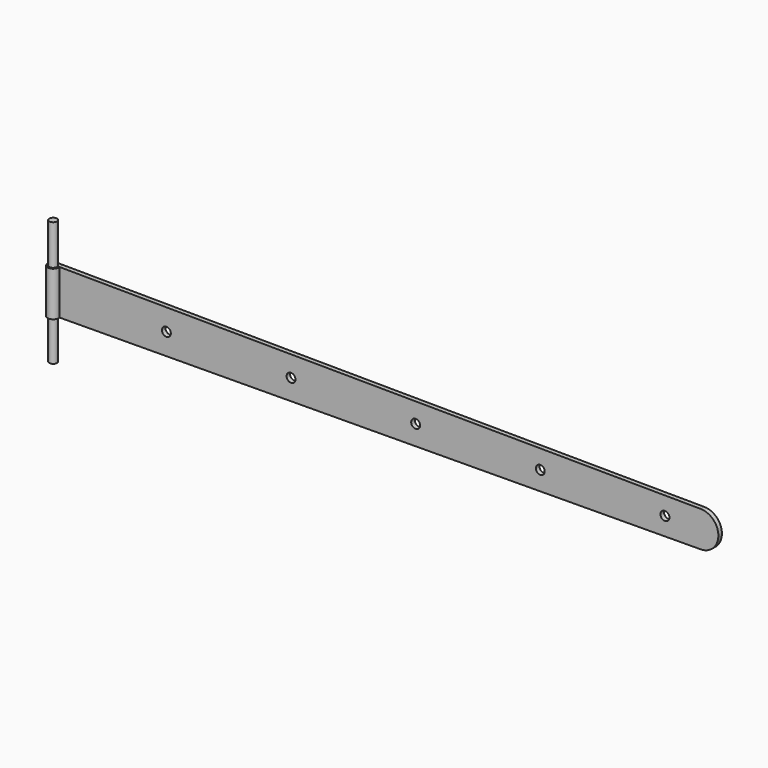
from build123d import *

# Parameters (mm, degrees)
F1_DEPTH      = 6.35
F3_DEPTH      = 63.5
F5_R          = 5.55625
F6_DEPTH      = 88.9
F6_DEPTH_BACK = 88.9
F7_R          = 6.35
F8_DEPTH      = 6.35


with BuildPart() as f1:
    # F0 (on Front) → F1 (new body)
    with BuildSketch(Plane.XZ):
        with BuildLine():
            Line((914.5763676277, 57.1493876788), (0, 63.5))
            Line((0, 63.5), (0, 0))
            Line((0, 0), (914.5763676277, 6.3506123212))
            ThreePointArc((914.5763676277, 6.3506123212), (939.8, 31.75), (914.5763676277, 57.1493876788))
        make_face()
    extrude(amount=F1_DEPTH)

    # F2 (on Top) → F3 (join)
    with BuildSketch(Plane.XY):
        with BuildLine():
            Line((0, 0), (-7.7771299333, 0))
            ThreePointArc((-7.7771299333, 0), (-12.7972457189, -14.0858610621), (0, -6.35))
            Line((0, -6.35), (0, 0))
        make_face()
    extrude(amount=F3_DEPTH)

    # F5 (on mid) → F6 (join, two sides)
    with BuildSketch(Plane.XY.offset(31.75)) as f6_sk:
        with Locations((-7.7771299333, -7.9375)):
            Circle(F5_R)
    extrude(amount=F6_DEPTH)
    extrude(f6_sk.sketch, amount=-F6_DEPTH_BACK)

    # F7 (on face) → F8 (cut, through all)
    with BuildSketch(Plane.XZ.offset(6.35)):
        with Locations((152.4, 31.75)):
            Circle(F7_R)
        with Locations((330.2, 31.75)):
            Circle(F7_R)
        with Locations((508, 31.75)):
            Circle(F7_R)
        with Locations((685.8, 31.75)):
            Circle(F7_R)
        with Locations((863.6, 31.75)):
            Circle(F7_R)
    extrude(amount=-F8_DEPTH, mode=Mode.SUBTRACT)


solid = f1.part
